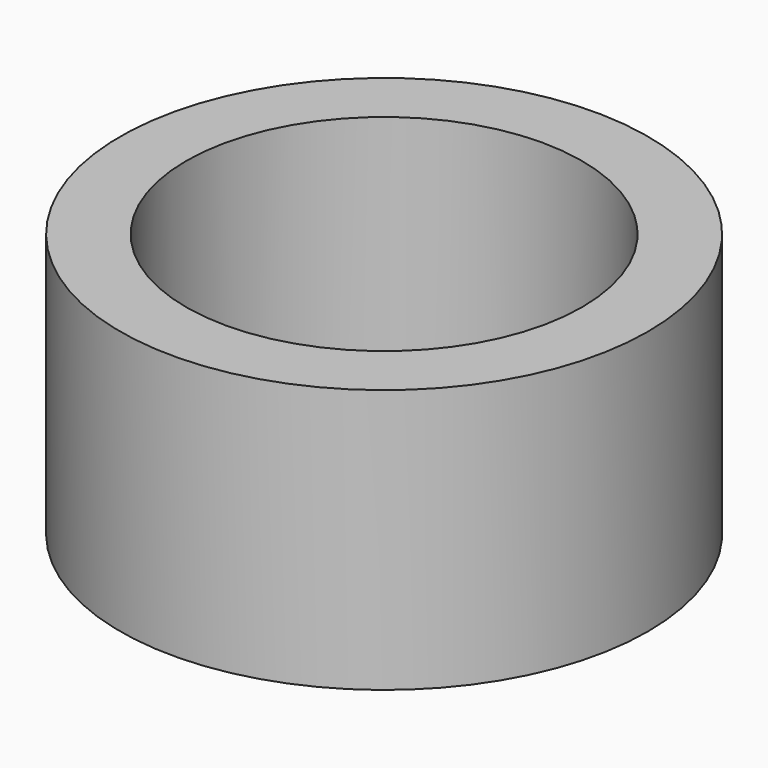
from build123d import *

# Parameters (mm, degrees)
CYLINDER010_R     = 1.5
CYLINDER010_DEPTH = 2
CYLINDER011_R     = 2
CYLINDER011_DEPTH = 2


with BuildPart() as cylinderouter005:
    # Cylinder010 → Cylinder010 (new body)
    with BuildSketch(Plane(origin=(8, -26, -23), x_dir=(1, 0, 0), z_dir=(0, 0, 1))):
        Circle(CYLINDER010_R)
    extrude(amount=CYLINDER010_DEPTH)


with BuildPart() as obj1:
    # Cylinder011 → Cylinder011 (new body)
    with BuildSketch(Plane(origin=(8, -26, -23), x_dir=(1, 0, 0), z_dir=(0, 0, 1))):
        Circle(CYLINDER011_R)
    extrude(amount=CYLINDER011_DEPTH)

    # Cut006: cut CylinderOuter005
    add(cylinderouter005.part, mode=Mode.SUBTRACT)


with BuildPart() as obj1_1:
    # Cut006 placement: moved
    add(obj1.part.moved(Location((-14.5, 17, 0))))


solid = obj1_1.part
